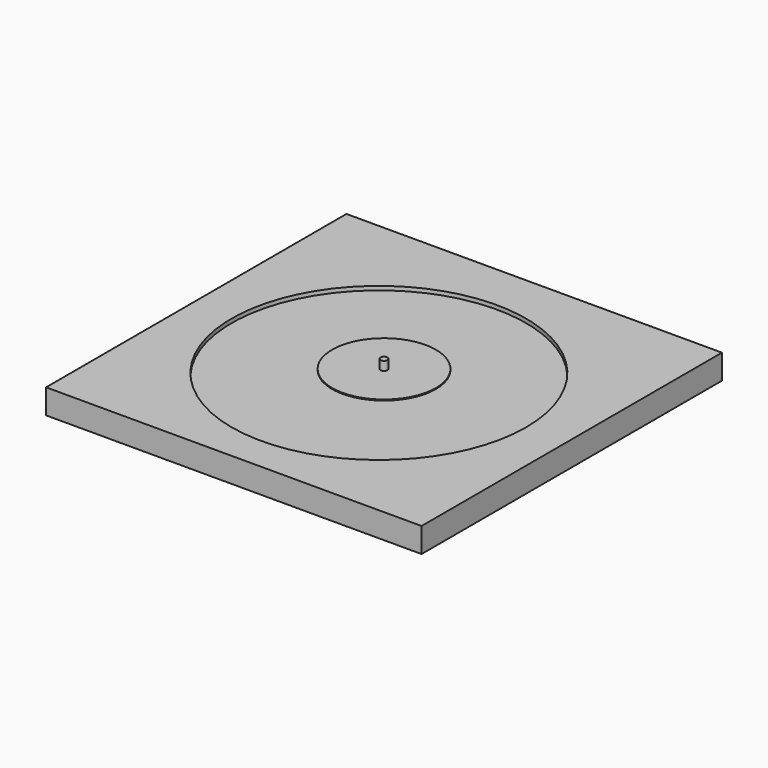
from build123d import *

# Parameters (mm, degrees)
F0_W     = 380
F0_H     = 380
F1_DEPTH = 25
F2_R     = 149
F3_DEPTH = 4
F4_R     = 52.5
F5_DEPTH = 1
F6_R     = 3.6
F7_DEPTH = 10


with BuildPart() as f1:
    # F0 (on Top) → F1 (new body)
    with BuildSketch(Plane.XY):
        Rectangle(F0_W, F0_H)
    extrude(amount=F1_DEPTH)

    # F2 (on face) → F3 (cut)
    with BuildSketch(Plane.XY.offset(25)):
        with Locations((0, -6.494125)):
            Circle(F2_R)
    extrude(amount=-F3_DEPTH, mode=Mode.SUBTRACT)


with BuildPart() as f5:
    # F4 (on face) → F5 (new body)
    with BuildSketch(Plane.XY.offset(25)):
        Circle(F4_R)
    extrude(amount=F5_DEPTH)

    # F6 (on face) → F7 (join)
    with BuildSketch(Plane.XY.offset(25)):
        Circle(F6_R)
    extrude(amount=F7_DEPTH)


solid = Compound([f1.part, f5.part])
